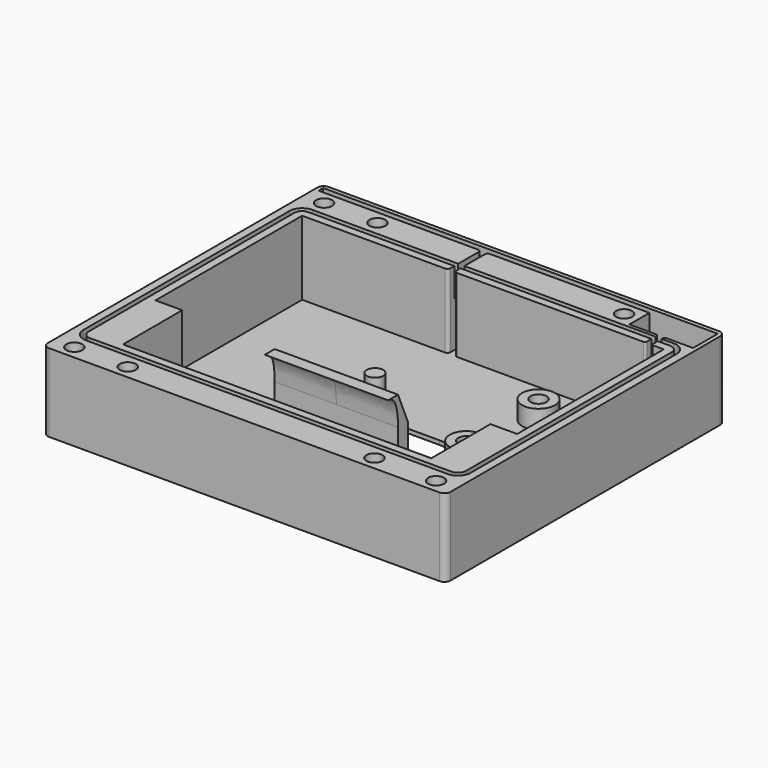
from build123d import *

# Parameters (mm, degrees)
PAD_DEPTH       = 1
PAD001_DEPTH    = 19
SKETCH002_R     = 4
SKETCH002_R_2   = 1.95
SKETCH002_R_3   = 2
PAD002_DEPTH    = 5.5
PAD003_DEPTH    = 15
POCKET_DEPTH    = 7
PAD004_DEPTH    = 1
SKETCH007_R     = 1.95
POCKET001_DEPTH = 5
PAD014_DEPTH    = 1


with BuildPart() as part:
    # Sketch → Pad (new body)
    with BuildSketch(Plane.XY):
        with BuildLine():
            Line((-47.5, -42.5), (47.5, -42.5))
            ThreePointArc((47.5, -42.5), (48.56066, -42.06066), (49, -41))
            Line((49, -41), (49, 41))
            ThreePointArc((49, 41), (48.56066, 42.06066), (47.5, 42.5))
            Line((47.5, 42.5), (-47.5, 42.5))
            ThreePointArc((-47.5, 42.5), (-48.56066, 42.06066), (-49, 41))
            Line((-49, 41), (-49, -41))
            ThreePointArc((-49, -41), (-48.56066, -42.06066), (-47.5, -42.5))
        make_face()
        with BuildLine():
            ThreePointArc((-12.5, 1.25), (-18.75, -5), (-12.5, -11.25))
            Line((-12.5, -11.25), (12.5, -11.25))
            ThreePointArc((12.5, -11.25), (18.75, -5), (12.5, 1.25))
            Line((-12.5, 1.25), (12.5, 1.25))
        make_face(mode=Mode.SUBTRACT)
    extrude(amount=PAD_DEPTH)

    # Sketch001 → Pad001 (join)
    with BuildSketch(Plane.XY):
        with BuildLine():
            Line((-47.5, -42.5), (47.5, -42.5))
            ThreePointArc((47.5, -42.5), (48.56066, -42.06066), (49, -41))
            Line((49, -41), (49, 41))
            ThreePointArc((49, 41), (48.56066, 42.06066), (47.5, 42.5))
            Line((47.5, 42.5), (-47.5, 42.5))
            ThreePointArc((-47.5, 42.5), (-48.56066, 42.06066), (-49, 41))
            Line((-49, 41), (-49, -41))
            ThreePointArc((-49, -41), (-48.56066, -42.06066), (-47.5, -42.5))
        make_face()
        with BuildLine():
            Line((44, 30.1), (44, -14.5))
            Line((44, -14.5), (37.5, -14.5))
            Line((37.5, -14.5), (37.5, -32.5))
            Line((37.5, -32.5), (-37.5, -32.5))
            Line((-37.5, -32.5), (-37.5, -14.5))
            Line((-37.5, -14.5), (-44, -14.5))
            Line((-44, -14.5), (-44, 30.1))
            Line((-44, 30.1), (-9.25, 30.1))
            ThreePointArc((-9.25, 30.1), (-8.71967, 30.31967), (-8.5, 30.85))
            Line((-8.5, 30.85), (-8.5, 39.35))
            ThreePointArc((-8.5, 39.35), (-8.71967, 39.88033), (-9.25, 40.1))
            Line((-9.25, 40.1), (-48, 40.1))
            Line((-48, 40.1), (-48, 41.5))
            Line((-48, 41.5), (48, 41.5))
            Line((48, 34), (48, 41.5))
            Line((48, 34), (41.5, 34))
            ThreePointArc((41.5, 34), (41.146447, 33.853553), (41, 33.5))
            Line((41, 33.5), (41, 30.6))
            ThreePointArc((41, 30.6), (41.146447, 30.246447), (41.5, 30.1))
            Line((41.5, 30.1), (44, 30.1))
        make_face(mode=Mode.SUBTRACT)
        with BuildLine():
            Line((-7, 30.85), (-7, 39.35))
            ThreePointArc((-6.25, 40.1), (-6.78033, 39.88033), (-7, 39.35))
            Line((-6.25, 40.1), (32.5, 40.1))
            Line((32.5, 40.1), (32.5, 34))
            Line((32.5, 34), (39, 34))
            ThreePointArc((39.5, 33.5), (39.353553, 33.853553), (39, 34))
            Line((39.5, 33.5), (39.5, 30.6))
            ThreePointArc((39, 30.1), (39.353553, 30.246447), (39.5, 30.6))
            Line((39, 30.1), (-6.25, 30.1))
            ThreePointArc((-7, 30.85), (-6.78033, 30.31967), (-6.25, 30.1))
        make_face()
    extrude(amount=PAD001_DEPTH)

    # Sketch002 → Pad002 (join)
    with BuildSketch(Plane.XY):
        with Locations((22, 19.5)):
            Circle(SKETCH002_R)
        with Locations((22, 19.5)):
            Circle(SKETCH002_R_2, mode=Mode.SUBTRACT)
        with Locations((22, -2.5)):
            Circle(SKETCH002_R)
        with Locations((22, -2.5)):
            Circle(SKETCH002_R_2, mode=Mode.SUBTRACT)
        with Locations((-9, 8.5)):
            Circle(SKETCH002_R_3)
    extrude(amount=PAD002_DEPTH)

    # Sketch003 → Pad003 (join, symmetric)
    with BuildSketch(Plane.YZ):
        with BuildLine():
            Line((-14.5, 0), (-14.5, 11))
            add(Edge.make_bspline(
                [(-17.5, 18), (-14.5, 18), (-14.5, 11)],
                knots=[0, 0, 0, 1, 1, 1], degree=2))
            Line((-17.5, 18), (-14.5, 18))
            Line((-14.5, 18), (-11.5, 11))
            Line((-11.5, 11), (-11.5, 0))
            Line((-11.5, 0), (-14.5, 0))
        make_face()
    extrude(amount=PAD003_DEPTH, both=True)

    # Sketch004 (on Face14 of Pad003) → Pocket (cut)
    with BuildSketch(Plane.XY.offset(19)):
        with BuildLine():
            Line((47.1, -32.5), (47.1, 30.1))
            ThreePointArc((47.1, 30.1), (46.192031, 32.292031), (44, 33.2))
            Line((44, 33.2), (-44, 33.2))
            ThreePointArc((-44, 33.2), (-46.192031, 32.292031), (-47.1, 30.1))
            Line((-47.1, 30.1), (-47.1, -32.5))
            ThreePointArc((-47.1, -32.5), (-46.192031, -34.692031), (-44, -35.6))
            Line((-44, -35.6), (44, -35.6))
            ThreePointArc((44, -35.6), (46.192031, -34.692031), (47.1, -32.5))
        make_face()
        with BuildLine():
            Line((45.9, -32.5), (45.9, 30.1))
            ThreePointArc((45.9, 30.1), (45.343503, 31.443503), (44, 32))
            Line((44, 32), (-44, 32))
            ThreePointArc((-44, 32), (-45.343503, 31.443503), (-45.9, 30.1))
            Line((-45.9, 30.1), (-45.9, -32.5))
            ThreePointArc((-45.9, -32.5), (-45.343503, -33.843503), (-44, -34.4))
            Line((-44, -34.4), (44, -34.4))
            ThreePointArc((44, -34.4), (45.343503, -33.843503), (45.9, -32.5))
        make_face(mode=Mode.SUBTRACT)
    extrude(amount=-POCKET_DEPTH, mode=Mode.SUBTRACT)

    # Sketch005 → Pad004 (join)
    with BuildSketch(Plane.YZ.offset(36.5)):
        Polygon((-14.5, 0), (-14.5, 4), (-28.5, 4), (-28.5, 15), (-32.5, 15), (-32.5, 0), align=None)
    extrude(amount=PAD004_DEPTH)

    # Sketch007 (on DatumPlane) → Pocket001 (cut)
    with BuildSketch(Plane.XY.offset(19)):
        with Locations((-44, -39.166667)):
            Circle(SKETCH007_R)
        with Locations((44, -39.166667)):
            Circle(SKETCH007_R)
        with Locations((-44, 36.766667)):
            Circle(SKETCH007_R)
        with Locations((29, 36.766667)):
            Circle(SKETCH007_R)
        with Locations((-31, 36.766667)):
            Circle(SKETCH007_R)
        with Locations((29, -39.166667)):
            Circle(SKETCH007_R)
        with Locations((-31, -39.166667)):
            Circle(SKETCH007_R)
    extrude(amount=-POCKET001_DEPTH, mode=Mode.SUBTRACT)

    # Sketch006 → Pad014 (join)
    with BuildSketch(Plane.YZ.offset(-37.5)):
        Polygon((-32.5, 0), (-32.5, 15), (-28.5, 15), (-28.5, 4), (-14.5, 4), (-14.5, 0), align=None)
    extrude(amount=PAD014_DEPTH)


solid = part.part
